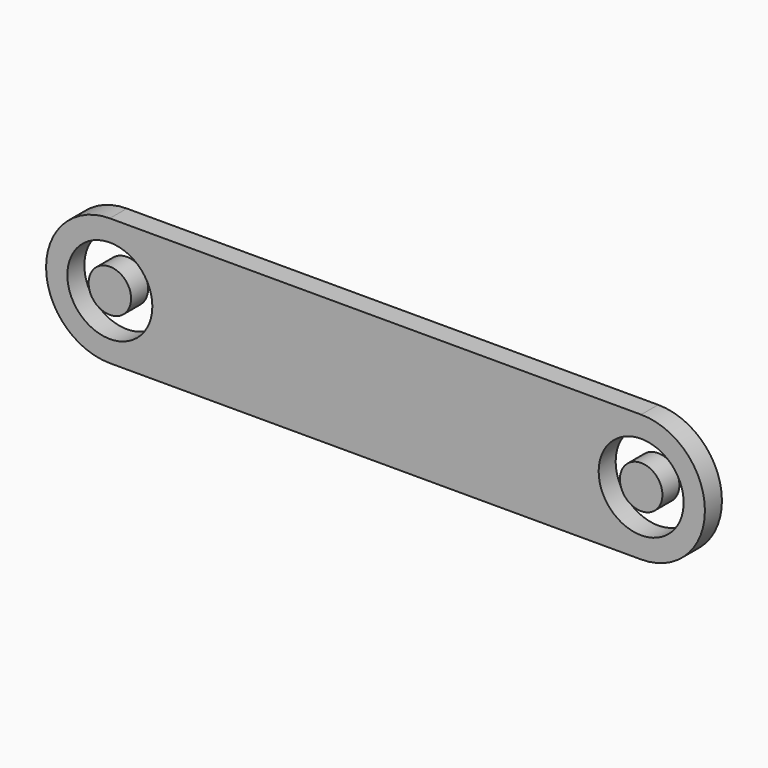
from build123d import *

# Parameters (mm, degrees)
F0_R     = 50.8
F1_DEPTH = 50.8
F0_R_2   = 101.6


with BuildPart() as f1:
    # F0 (on Front) → F1 (new body)
    with BuildSketch(Plane.XZ):
        with Locations((-635, 0)):
            Circle(F0_R)
    extrude(amount=F1_DEPTH)


with BuildPart() as f1b:
    # F0 (on Front) → F1, piece 2 (new body)
    with BuildSketch(Plane.XZ):
        with BuildLine():
            ThreePointArc((-635, 152.4), (-527.2369265472, 107.7630734528), (-482.6, 0))
            ThreePointArc((-482.6, 0), (-527.2369265472, -107.7630734528), (-635, -152.4))
            Line((-635, -152.4), (0, -152.4))
            Line((0, -152.4), (0, 152.4))
            Line((0, 152.4), (-635, 152.4))
        make_face()
        with BuildLine():
            ThreePointArc((-635, -152.4), (-527.2369265472, -107.7630734528), (-482.6, 0))
            ThreePointArc((-482.6, 0), (-527.2369265472, 107.7630734528), (-635, 152.4))
            ThreePointArc((-635, 152.4), (-787.4, 0), (-635, -152.4))
        make_face()
        with Locations((-635, 0)):
            Circle(F0_R_2, mode=Mode.SUBTRACT)
    extrude(amount=F1_DEPTH)

    # F2: F1b, F1 across face


with BuildPart() as f1b_1:
    add(f1b.part)
    add(f1b.part.mirror(Plane(origin=(0, -25.4, 0), x_dir=(0, 1, 0), z_dir=(1, 0, 0))))
    add(f1.part.mirror(Plane(origin=(0, -25.4, 0), x_dir=(0, 1, 0), z_dir=(1, 0, 0))))


solid = Compound([f1.part, f1b_1.part])
